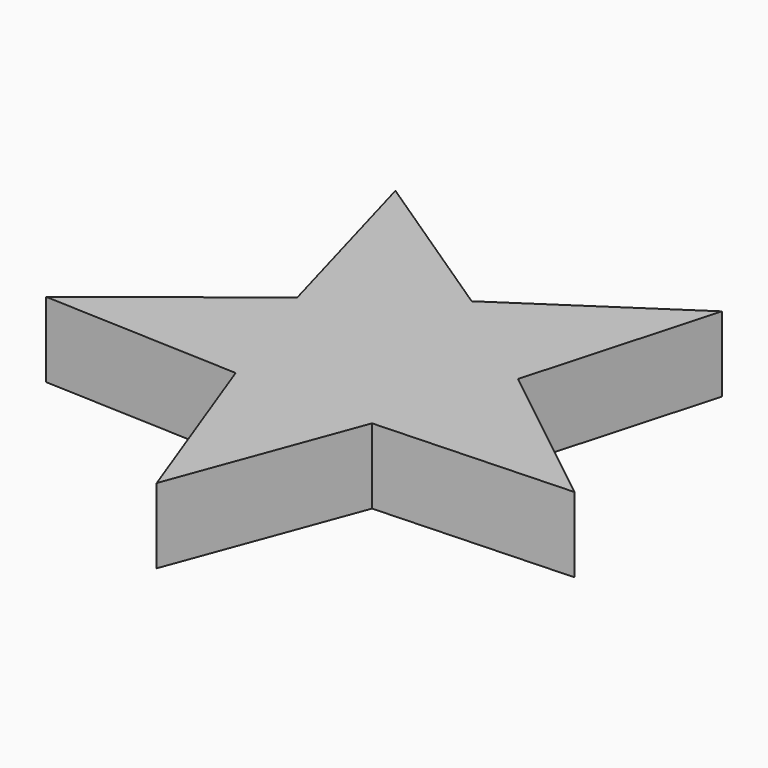
from build123d import *

# Parameters (mm, degrees)
F1_DEPTH = 2


with BuildPart() as f1:
    # F0 (on Top) → F1 (new body)
    with BuildSketch(Plane.XY):
        Polygon((-2.938926, 0.954915), (0, 3.09017), (-4.349611, 5.986726), align=None)
        Polygon((4.349611, 5.986726), (0, 3.09017), (2.938926, 0.954915), align=None)
        Polygon((2.938926, 0.954915), (0, 3.09017), (-2.938926, 0.954915), (-1.816356, -2.5), (0, -2.5), (1.816356, -2.5), align=None)
        Polygon((-1.816356, -2.5), (-2.938926, 0.954915), (-7.037818, -2.286726), align=None)
        Polygon((0, -2.5), (-1.816356, -2.5), (0, -7.4), align=None)
        Polygon((7.037818, -2.286726), (2.938926, 0.954915), (1.816356, -2.5), align=None)
        Polygon((0, -7.4), (1.816356, -2.5), (0, -2.5), align=None)
    extrude(amount=F1_DEPTH)


solid = f1.part
